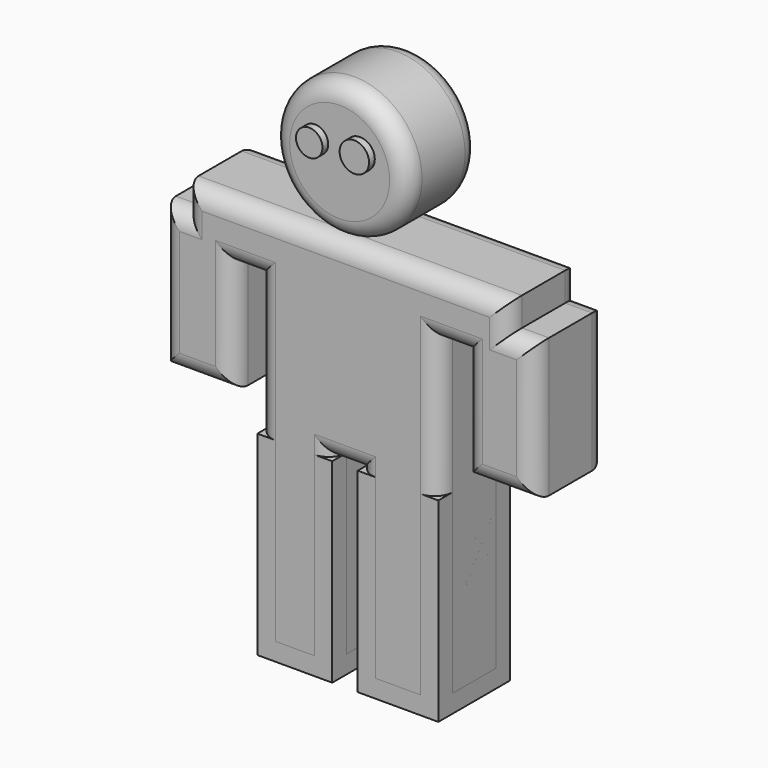
from build123d import *

# Parameters (mm, degrees)
F0_W     = 21.1654354353
F0_H     = 55.1231652498
F1_DEPTH = 25.4
F0_W_2   = 22.7935481817
F0_W_3   = 13.9731224626
F0_H_2   = 9.0853758156
F0_W_4   = 12.2400671244
F0_H_3   = 8.1012733281
F2_DEPTH = 25.4
F3_R     = 5.08
F4_R     = 19.2152622129
F5_DEPTH = 25.4
F6_R     = 5.08
F7_R     = 3.7400653386
F7_R_2   = 4.1602495274
F8_DEPTH = 2.032


with BuildPart() as f1:
    # F0 (on Front) → F1 (new body)
    with BuildSketch(Plane.XZ):
        with Locations((-12.6760037383, -27.5615826249)):
            Rectangle(F0_W, F0_H)
    extrude(amount=F1_DEPTH)


with BuildPart() as f1b:
    # F0 (on Front) → F1, piece 2 (new body)
    with BuildSketch(Plane.XZ):
        with Locations((16.5136931464, -27.5615826249)):
            Rectangle(F0_W_2, F0_H)
    extrude(amount=F1_DEPTH)


with BuildPart() as f2:
    # F0 (on Front) → F2 (new body)
    with BuildSketch(Plane.XZ):
        Polygon((-23.2587214559, 39.1532070935), (-23.2587214559, 0), (-2.0932860207, 0), (5.1169190556, 0), (27.9104672372, 0), (27.9104672372, 39.1532070935), (27.9104672372, 55.3557537496), (-23.2587214559, 55.3557537496), align=None)
        with Locations((-12.6760037383, -27.5615826249)):
            Rectangle(F0_W, F0_H)
        Polygon((-29.9691427499, 39.1532070935), (-23.2587214559, 39.1532070935), (-23.2587214559, 55.3557537496), (-43.9422652125, 55.3557537496), (-43.9422652125, 48.2385829091), (-29.9691427499, 48.2385829091), align=None)
        with Locations((16.5136931464, -27.5615826249)):
            Rectangle(F0_W_2, F0_H)
        Polygon((-29.9691427499, 7.7662086114), (-29.9691427499, 39.1532070935), (-43.9422652125, 39.1532070935), (-43.9422652125, 48.2385829091), (-50.3605343401, 48.2385829091), (-50.3605343401, 7.7662086114), align=None)
        with Locations((-36.9557039812, 43.6958950013)):
            Rectangle(F0_W_3, F0_H_2)
        Polygon((47.507353127, 55.3557537496), (27.9104672372, 55.3557537496), (27.9104672372, 39.1532070935), (35.2672860026, 39.1532070935), (35.2672860026, 47.2544804215), (47.507353127, 47.2544804215), align=None)
        with Locations((41.3873195648, 43.2038437575)):
            Rectangle(F0_W_4, F0_H_3)
        Polygon((47.507353127, 39.1532070935), (35.2672860026, 39.1532070935), (35.2672860026, 7.9948278144), (55.1300533116, 7.9948278144), (55.1300533116, 47.2544804215), (47.507353127, 47.2544804215), align=None)
    extrude(amount=F2_DEPTH)

    # F3
    f3_edges = [f2.edges().sort_by_distance(p)[0] for p in [
        (5.116919, -12.7, -55.123165),
        (27.910467, -12.7, -55.123165),
        (16.513693, 0, -55.123165),
        (16.513693, -25.4, -55.123165),
        (-23.258721, -12.7, -55.123165),
        (-2.093286, -12.7, -55.123165),
        (-12.676004, 0, -55.123165),
        (-12.676004, -25.4, -55.123165),
        (-2.093286, 0, -27.561583),
        (1.511817, 0, 0),
        (5.116919, 0, -27.561583),
        (27.910467, 0, -7.984979),
        (31.588877, 0, 39.153207),
        (35.267286, 0, 23.574017),
        (45.19867, 0, 7.994828),
        (55.130053, 0, 27.624654),
        (51.318703, 0, 47.25448),
        (47.507353, 0, 51.305117),
        (1.782544, 0, 55.355754),
        (-43.942265, 0, 51.797168),
        (-47.1514, 0, 48.238583),
        (-50.360534, 0, 28.002396),
        (-40.164839, 0, 7.766209),
        (-29.969143, 0, 23.459708),
        (-26.613932, 0, 39.153207),
        (-23.258721, 0, -7.984979),
        (-2.093286, -25.4, -27.561583),
        (1.511817, -25.4, 0),
        (5.116919, -25.4, -27.561583),
        (27.910467, -25.4, -7.984979),
        (31.588877, -25.4, 39.153207),
        (35.267286, -25.4, 23.574017),
        (45.19867, -25.4, 7.994828),
        (55.130053, -25.4, 27.624654),
        (51.318703, -25.4, 47.25448),
        (47.507353, -25.4, 51.305117),
        (1.782544, -25.4, 55.355754),
        (-43.942265, -25.4, 51.797168),
        (-47.1514, -25.4, 48.238583),
        (-50.360534, -25.4, 28.002396),
        (-40.164839, -25.4, 7.766209),
        (-29.969143, -25.4, 23.459708),
        (-26.613932, -25.4, 39.153207),
        (-23.258721, -25.4, -7.984979),
    ]]
    fillet(f3_edges, radius=F3_R)


with BuildPart() as f5:
    # F4 (on face) → F5 (new body)
    with BuildSketch(Plane(origin=(0, 0, 0), x_dir=(-1, 0, 0), z_dir=(0, 1, 0))):
        with Locations((0, 75.1725286245)):
            Circle(F4_R)
    extrude(amount=-F5_DEPTH)

    # F6
    f6_edges = [f5.edges().sort_by_distance(p)[0] for p in [
        (19.215262, -25.4, 75.172529),
        (19.215262, 0, 75.172529),
        (-19.215262, -12.7, 75.172529),
    ]]
    fillet(f6_edges, radius=F6_R)

    # F7 (on face) → F8 (join)
    with BuildSketch(Plane.XZ.offset(25.4)):
        with Locations((-6.9725243375, 78.529573977)):
            Circle(F7_R)
        with Locations((5.7816337794, 79.1029334068)):
            Circle(F7_R_2)
    extrude(amount=F8_DEPTH)


solid = Compound([f1.part, f1b.part, f2.part, f5.part])
